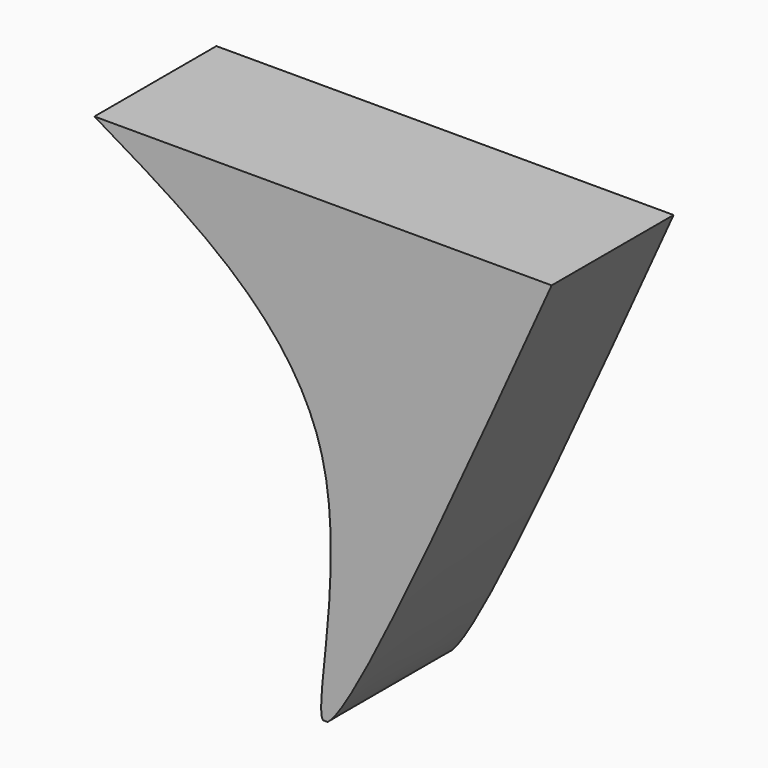
from build123d import *

# Parameters (mm, degrees)
F1_DEPTH = 25.4


with BuildPart() as f1:
    # F0 (on Front) → F1 (new body)
    with BuildSketch(Plane.XZ):
        with BuildLine():
            Line((0, -38.1), (0.7346833614, -38.1))
            add(Edge.make_bspline(
                [(0.7346833614, -38.1), (4.9370923311, -35.4584951791), (21.5185461656, 1.3207524104), (38.1, 38.1)],
                knots=[0.6226403256, 0.6226403256, 0.6226403256, 0.6226403256, 1, 1, 1, 1], degree=3))
            Line((38.1, 38.1), (-38.1, 38.1))
            add(Edge.make_bspline(
                [(-38.1, 38.1), (-21.2091388354, 28.097364905), (9.8851869331, 9.6835498154), (-1.6277106187, -36.1535619112), (0, -38.1)],
                knots=[0, 0, 0, 0, 0.3227545323, 0.5941576615, 0.5941576615, 0.5941576615, 0.5941576615], degree=3))
        make_face()
    extrude(amount=F1_DEPTH)


solid = f1.part
